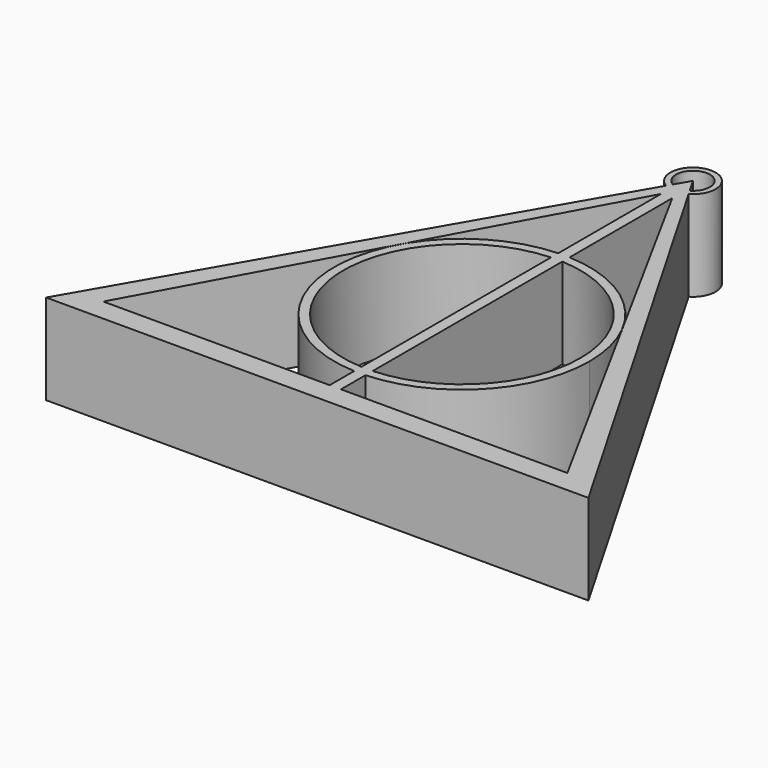
from build123d import *

# Parameters (mm, degrees)
F0_W     = 0.25
F0_H     = 0.9996096908
F1_DEPTH = 4
F2_R     = 1
F2_R_2   = 0.75
F3_DEPTH = 4


with BuildPart() as f1:
    # F0 (on Top) → F1 (new body)
    with BuildSketch(Plane.XY):
        Polygon((0, 19.9352577329), (0, 20.7846096908), (-12, 0), (-0.25, 0), (-0.25, 0.9996096908), (-10.2681745375, 0.9996096908), (-0.25, 19.3276307217), (-0.25, 19.9352577329), align=None)
        Polygon((0, 19.785), (0, 19.9352577329), (-0.25, 19.9352577329), (-0.25, 19.3276307217), align=None)
        with BuildLine():
            Line((0, 13.65), (0, 19.785))
            Line((0, 19.785), (-0.25, 19.3276307217))
            Line((-0.25, 19.3276307217), (-0.25, 13.6444663167))
            ThreePointArc((-0.25, 13.6444663167), (-0.1250306179, 13.6486164098), (0, 13.65))
        make_face()
        with BuildLine():
            Line((0.25, 19.3276307217), (0, 19.785))
            Line((0, 19.785), (0, 13.65))
            ThreePointArc((0, 13.65), (0.1250306179, 13.6486164098), (0.25, 13.6444663167))
            Line((0.25, 13.6444663167), (0.25, 19.3276307217))
        make_face()
        Polygon((0.25, 19.9352577329), (0, 19.9352577329), (0, 19.785), (0.25, 19.3276307217), align=None)
        Polygon((12, 0), (0, 20.7846096908), (0, 19.9352577329), (0.25, 19.9352577329), (0.25, 19.3276307217), (10.2681745375, 0.9996096908), (0.25, 0.9996096908), (0.25, 0), align=None)
        with BuildLine():
            ThreePointArc((-0.25, 13.6444663167), (-5.65, 8), (-0.25, 2.3555336833))
            Line((-0.25, 2.3555336833), (-0.25, 2.7559557591))
            ThreePointArc((-0.25, 2.7559557591), (-5.25, 8), (-0.25, 13.2440442409))
            Line((-0.25, 13.2440442409), (-0.25, 13.6444663167))
        make_face()
        with BuildLine():
            ThreePointArc((0.25, 13.2440442409), (0.125035466, 13.248510849), (0, 13.25))
            Line((0, 13.25), (0, 2.75))
            ThreePointArc((0, 2.75), (0.125035466, 2.751489151), (0.25, 2.7559557591))
            Line((0.25, 2.7559557591), (0.25, 13.2440442409))
        make_face()
        with BuildLine():
            Line((0, 2.75), (0, 13.25))
            ThreePointArc((0, 13.25), (-0.125035466, 13.248510849), (-0.25, 13.2440442409))
            Line((-0.25, 13.2440442409), (-0.25, 2.7559557591))
            ThreePointArc((-0.25, 2.7559557591), (-0.125035466, 2.751489151), (0, 2.75))
        make_face()
        with BuildLine():
            Line((0, 13.25), (0, 13.65))
            ThreePointArc((0, 13.65), (-0.1250306179, 13.6486164098), (-0.25, 13.6444663167))
            Line((-0.25, 13.6444663167), (-0.25, 13.2440442409))
            ThreePointArc((-0.25, 13.2440442409), (-0.125035466, 13.248510849), (0, 13.25))
        make_face()
        with BuildLine():
            ThreePointArc((0.25, 13.6444663167), (0.1250306179, 13.6486164098), (0, 13.65))
            Line((0, 13.65), (0, 13.25))
            ThreePointArc((0, 13.25), (0.125035466, 13.248510849), (0.25, 13.2440442409))
            Line((0.25, 13.2440442409), (0.25, 13.6444663167))
        make_face()
        with BuildLine():
            Line((0.25, 2.7559557591), (0.25, 2.3555336833))
            ThreePointArc((0.25, 2.3555336833), (4.0825849654, 4.0942350301), (5.65, 8))
            ThreePointArc((5.65, 8), (4.0825849654, 11.9057649699), (0.25, 13.6444663167))
            Line((0.25, 13.6444663167), (0.25, 13.2440442409))
            ThreePointArc((0.25, 13.2440442409), (3.7996710384, 11.6228441865), (5.25, 8))
            ThreePointArc((5.25, 8), (3.7996710384, 4.3771558135), (0.25, 2.7559557591))
        make_face()
        with Locations((0.125, 0.4998048454)):
            Rectangle(F0_W, F0_H)
        with BuildLine():
            Line((-0.25, 2.3555336833), (-0.25, 0.9996096908))
            Line((-0.25, 0.9996096908), (0, 0.9996096908))
            Line((0, 0.9996096908), (0, 2.35))
            ThreePointArc((0, 2.35), (-0.1250306179, 2.3513835902), (-0.25, 2.3555336833))
        make_face()
        with BuildLine():
            Line((0, 0.9996096908), (0.25, 0.9996096908))
            Line((0.25, 0.9996096908), (0.25, 2.3555336833))
            ThreePointArc((0.25, 2.3555336833), (0.1250306179, 2.3513835902), (0, 2.35))
            Line((0, 2.35), (0, 0.9996096908))
        make_face()
        with BuildLine():
            Line((-0.25, 2.7559557591), (-0.25, 2.3555336833))
            ThreePointArc((-0.25, 2.3555336833), (-0.1250306179, 2.3513835902), (0, 2.35))
            Line((0, 2.35), (0, 2.75))
            ThreePointArc((0, 2.75), (-0.125035466, 2.751489151), (-0.25, 2.7559557591))
        make_face()
        with BuildLine():
            ThreePointArc((0, 2.35), (0.1250306179, 2.3513835902), (0.25, 2.3555336833))
            Line((0.25, 2.3555336833), (0.25, 2.7559557591))
            ThreePointArc((0.25, 2.7559557591), (0.125035466, 2.751489151), (0, 2.75))
            Line((0, 2.75), (0, 2.35))
        make_face()
        with Locations((-0.125, 0.4998048454)):
            Rectangle(F0_W, F0_H)
    extrude(amount=F1_DEPTH)

    # F2 (on Top) → F3 (join)
    with BuildSketch(Plane.XY):
        with Locations((0, 20.785106346)):
            Circle(F2_R)
        with Locations((0, 20.785106346)):
            Circle(F2_R_2, mode=Mode.SUBTRACT)
    extrude(amount=F3_DEPTH)


solid = f1.part
